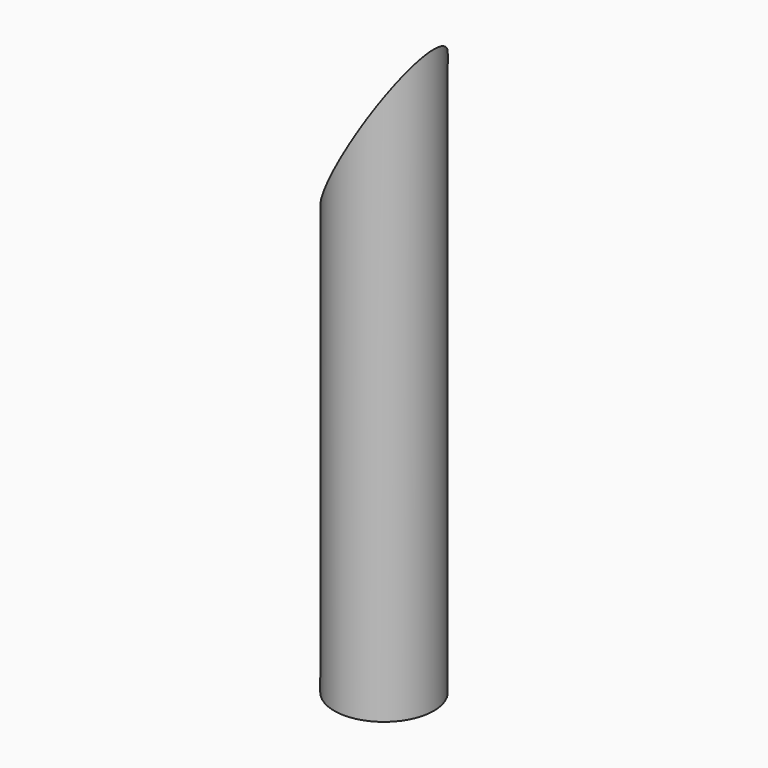
from build123d import *

# Parameters (mm, degrees)
F0_W     = 0.2921
F0_H     = 25.4
F3_DEPTH = 12.7


with BuildPart() as f1:
    # F0 (on Front) → F1 (revolve)
    with BuildSketch(Plane.XZ):
        with Locations((2.02565, 12.7)):
            Rectangle(F0_W, F0_H)
    revolve(axis=Axis((0, 0, 12.7), (0, 0, 1)))

    # F2 (on Front) → F3 (cut, symmetric)
    with BuildSketch(Plane.XZ):
        Polygon((-2.1717, 25.4), (2.1717, 25.4), (2.1717, 27.94), (-4.7117, 27.94), (-4.7117, 17.8770105224), (-2.1717, 17.8770105224), align=None)
        Polygon((-2.1717, 17.8770105224), (2.1717, 25.4), (-2.1717, 25.4), align=None)
    extrude(amount=F3_DEPTH, both=True, mode=Mode.SUBTRACT)


solid = f1.part
